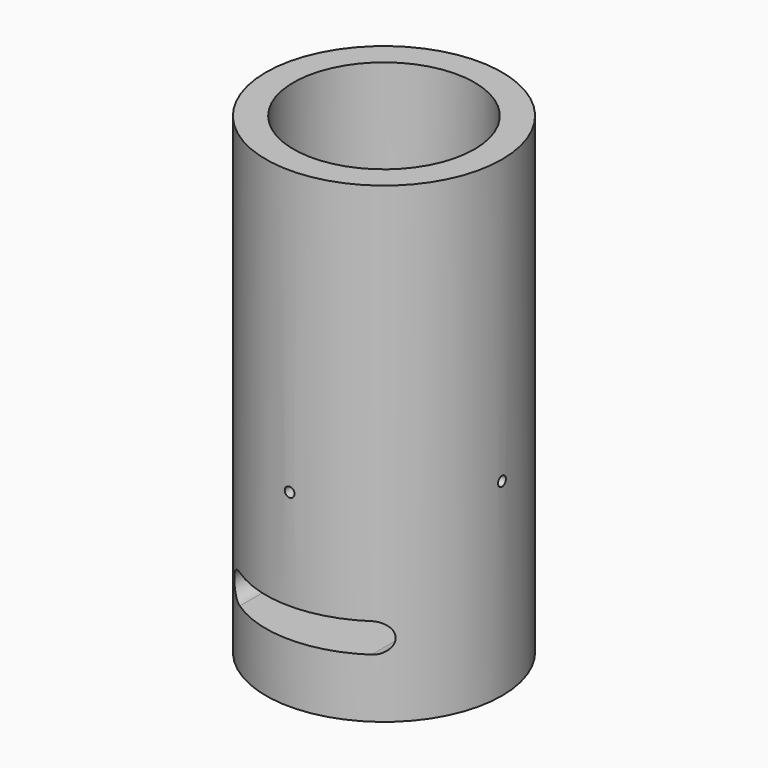
from build123d import *

# Parameters (mm, degrees)
F0_R      = 6
F1_DEPTH  = 4
F2_R      = 6
F2_R_2    = 4.6
F3_DEPTH  = 20
F6_DEPTH  = 25
F8_R      = 4.6
F8_R_2    = 4.35
F9_DEPTH  = 0.3
F10_R     = 0.25
F11_DEPTH = 25
F13_R     = 0.25
F14_DEPTH = 25


with BuildPart() as f1:
    # F0 (on Top) → F1 (new body)
    with BuildSketch(Plane.XY):
        Circle(F0_R)
    extrude(amount=F1_DEPTH)

    # F2 (on face) → F3 (join)
    with BuildSketch(Plane.XY.offset(4)):
        Circle(F2_R)
        Circle(F2_R_2, mode=Mode.SUBTRACT)
    extrude(amount=F3_DEPTH)

    # F5 (on offset) → F6 (cut)
    with BuildSketch(Plane.XZ.offset(10)):
        with BuildLine():
            ThreePointArc((-2.6, 3.75), (-2.8196699141, 4.2803300859), (-3.35, 4.5))
            Line((-3.35, 4.5), (-3.35, 3))
            ThreePointArc((-3.35, 3), (-2.8196699141, 3.2196699141), (-2.6, 3.75))
        make_face()
        with BuildLine():
            Line((3.35, 4.5), (-3.35, 4.5))
            ThreePointArc((-3.35, 4.5), (-2.8196699141, 4.2803300859), (-2.6, 3.75))
            ThreePointArc((-2.6, 3.75), (-2.8196699141, 3.2196699141), (-3.35, 3))
            Line((-3.35, 3), (3.35, 3))
            ThreePointArc((3.35, 3), (2.6, 3.75), (3.35, 4.5))
        make_face()
        with BuildLine():
            Line((-3.35, 3), (-3.35, 4.5))
            ThreePointArc((-3.35, 4.5), (-4.1, 3.75), (-3.35, 3))
        make_face()
        with BuildLine():
            ThreePointArc((4.1, 3.75), (3.8803300859, 4.2803300859), (3.35, 4.5))
            Line((3.35, 4.5), (3.35, 3))
            ThreePointArc((3.35, 3), (3.8803300859, 3.2196699141), (4.1, 3.75))
        make_face()
        with BuildLine():
            Line((3.35, 3), (3.35, 4.5))
            ThreePointArc((3.35, 4.5), (2.6, 3.75), (3.35, 3))
        make_face()
    extrude(amount=-F6_DEPTH, mode=Mode.SUBTRACT)

    # F8 (on offset) → F9 (join)
    with BuildSketch(Plane(origin=(0, 0, 10), x_dir=(1, 0, 0), z_dir=(0, 0, -1))):
        Circle(F8_R)
        Circle(F8_R_2, mode=Mode.SUBTRACT)
    extrude(amount=-F9_DEPTH)

    # F10 (on offset) → F11 (cut)
    with BuildSketch(Plane.XZ.offset(10)):
        with Locations((0, 9.6)):
            Circle(F10_R)
    extrude(amount=-F11_DEPTH, mode=Mode.SUBTRACT)

    # F13 (on offset) → F14 (cut)
    with BuildSketch(Plane.YZ.offset(-15)):
        with Locations((0, 9.6)):
            Circle(F13_R)
    extrude(amount=F14_DEPTH, mode=Mode.SUBTRACT)


solid = f1.part
